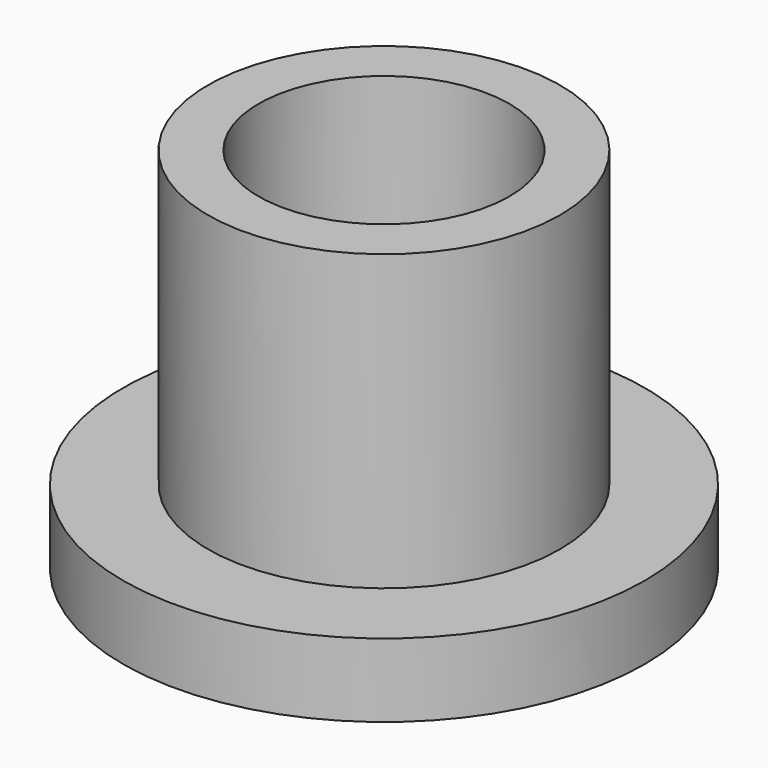
from build123d import *

# Parameters (mm, degrees)
F1_R     = 11.971622
F1_R_2   = 8.528701
F2_DEPTH = 25
F0_R     = 17.742193
F3_DEPTH = 5


with BuildPart() as f2:
    # F1 (on face) → F2 (new body)
    with BuildSketch(Plane.XY):
        Circle(F1_R)
        Circle(F1_R_2, mode=Mode.SUBTRACT)
    extrude(amount=F2_DEPTH)

    # F0 (on Top) → F3 (join)
    with BuildSketch(Plane.XY):
        Circle(F0_R)
    extrude(amount=F3_DEPTH)


solid = f2.part
